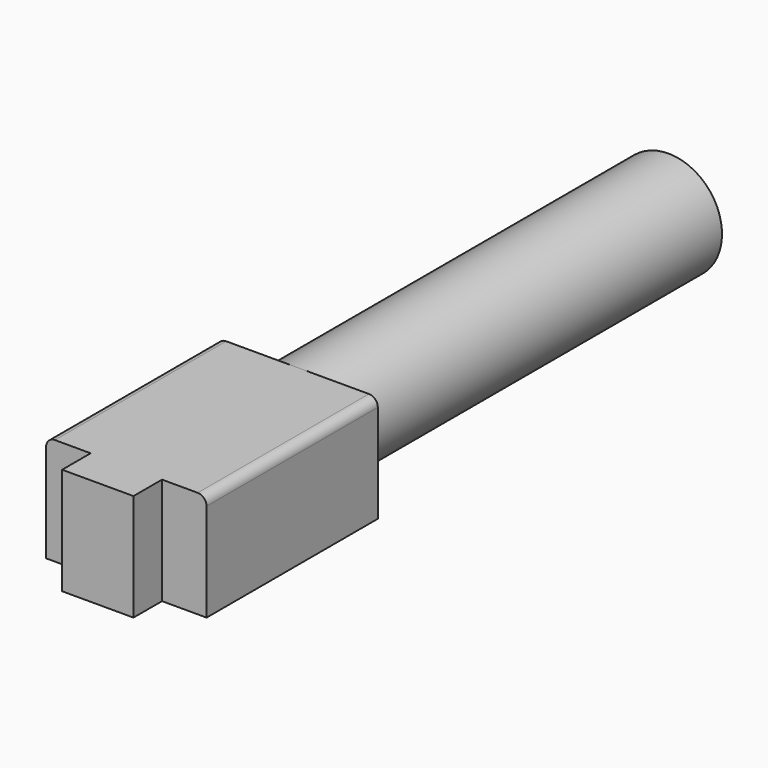
from build123d import *

# Parameters (mm, degrees)
F1_DEPTH = 11.43
F2_W     = 6.35
F2_H     = 5.08
F3_DEPTH = 25.4
F4_R     = 7.62
F5_DEPTH = 66.04
F6_R     = 5.08
F7_DEPTH = 63.5
F8_R     = 1.27


with BuildPart() as f1:
    # F0 (on Right) → F1 (new body, symmetric)
    with BuildSketch(Plane.YZ):
        Polygon((35.56, 12.7), (0, 12.7), (0, 0), (0, -2.54), (35.56, -2.54), (35.56, 0), align=None)
    extrude(amount=F1_DEPTH, both=True)

    # F2 (on face) → F3 (cut)
    with BuildSketch(Plane.XY.offset(12.7)):
        with Locations((-8.255, 2.54)):
            Rectangle(F2_W, F2_H)
        with Locations((8.255, 2.54)):
            Rectangle(F2_W, F2_H)
    extrude(amount=-F3_DEPTH, mode=Mode.SUBTRACT)

    # F4 (on face) → F5 (join)
    with BuildSketch(Plane(origin=(0, 35.56, 0), x_dir=(-1, 0, 0), z_dir=(0, 1, 0))):
        with Locations((0, 5.08)):
            Circle(F4_R)
    extrude(amount=F5_DEPTH)

    # F6 (on face) → F7 (cut)
    with BuildSketch(Plane(origin=(0, 101.6, 0), x_dir=(-1, 0, 0), z_dir=(0, 1, 0))):
        with Locations((0, 5.08)):
            Circle(F6_R)
    extrude(amount=-F7_DEPTH, mode=Mode.SUBTRACT)

    # F8
    f8_edges = [f1.edges().sort_by_distance(p)[0] for p in [
        (-11.43, 20.32, 12.7),
        (11.43, 20.32, 12.7),
    ]]
    fillet(f8_edges, radius=F8_R)


solid = f1.part
